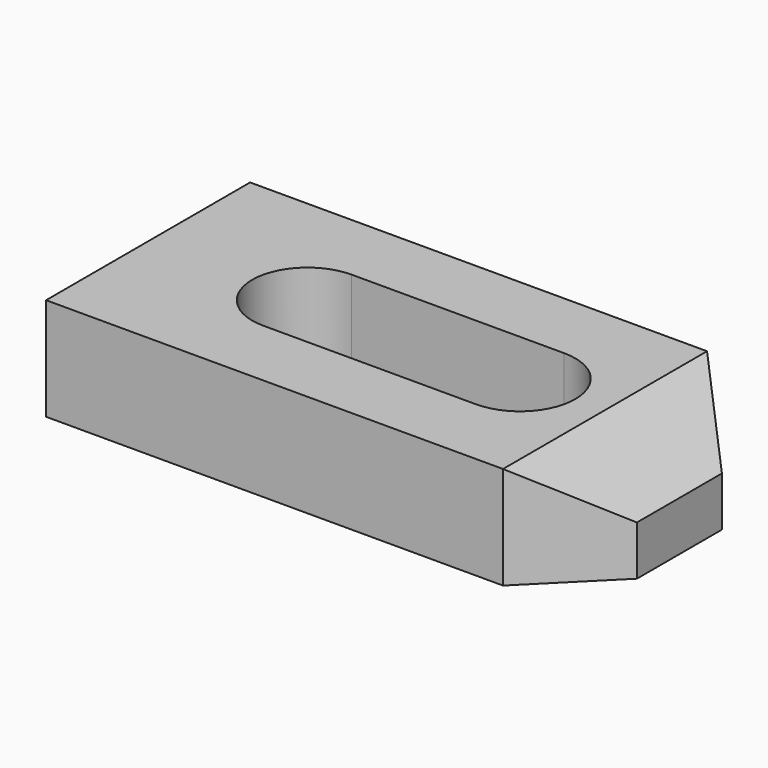
from build123d import *

# Parameters (mm, degrees)
F1_DEPTH = 4.83
F2_SIZE2 = 2.5
F2_SIZE  = 3.5


with BuildPart() as f1:
    # F0 (on Top) → F1 (new body)
    with BuildSketch(Plane.XY):
        Polygon((-12.5, -6), (9, -6), (12.5, -2.5), (12.5, 2.5), (9, 6), (-12.5, 6), align=None)
        with BuildLine():
            Line((5, -2.6), (-5, -2.6))
            ThreePointArc((-5, -2.6), (-7.6, 0), (-5, 2.6))
            Line((-5, 2.6), (5, 2.6))
            ThreePointArc((5, 2.6), (7.6, 0), (5, -2.6))
        make_face(mode=Mode.SUBTRACT)
    extrude(amount=F1_DEPTH)

    # F2
    f2_edges = [f1.edges().sort_by_distance(p)[0] for p in [
        (12.5, 0, 4.83),
    ]]
    f2_side = f1.faces().sort_by_distance((-1.75, -5.722692, 4.83))[0]
    chamfer(f2_edges, length=F2_SIZE, length2=F2_SIZE2, reference=f2_side)


solid = f1.part
